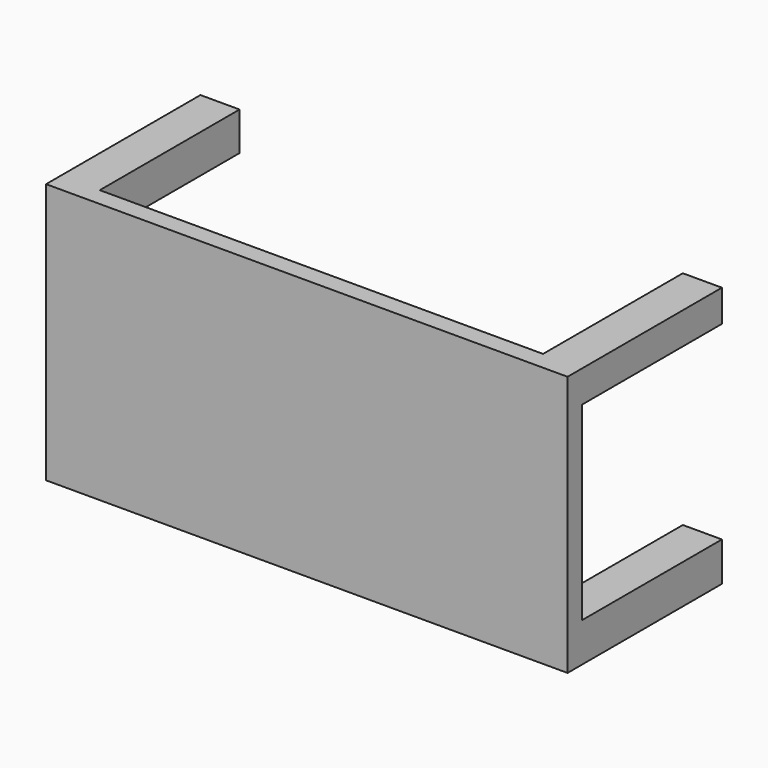
from build123d import *

# Parameters (mm, degrees)
F0_W     = 2000
F0_H     = 1000
F1_DEPTH = 70
F2_W     = 150
F2_H     = 122.248194
F2_H_2   = 150
F2_H_3   = 147.254518
F3_DEPTH = 670


with BuildPart() as f1:
    # F0 (on Front) → F1 (new body)
    with BuildSketch(Plane.XZ):
        with Locations((-0.821363, -574.10022)):
            Rectangle(F0_W, F0_H)
    extrude(amount=F1_DEPTH)

    # F2 (on face) → F3 (join)
    with BuildSketch(Plane(origin=(0, 0, 0), x_dir=(-1, 0, 0), z_dir=(0, 1, 0))):
        with Locations((-924.178637, -135.224317)):
            Rectangle(F2_W, F2_H)
        with Locations((-924.178637, -999.10022)):
            Rectangle(F2_W, F2_H_2)
        with Locations((925.821363, -999.10022)):
            Rectangle(F2_W, F2_H_2)
        with Locations((925.821363, -147.727479)):
            Rectangle(F2_W, F2_H_3)
    extrude(amount=F3_DEPTH)


solid = f1.part
